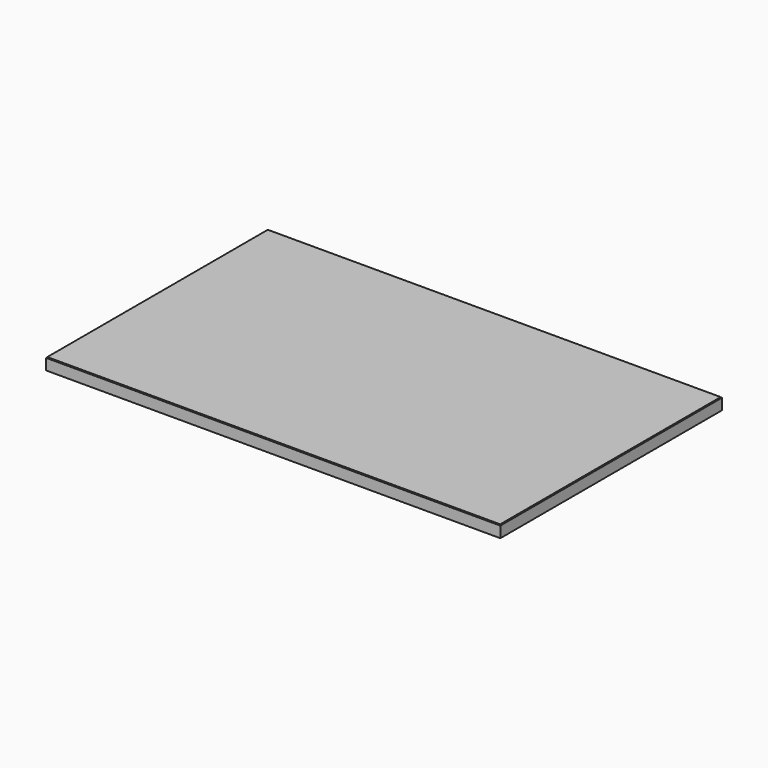
from build123d import *

# Parameters (mm, degrees)
F0_W     = 1640
F0_H     = 1000
F1_DEPTH = 40
F2_T     = -2.5
F3_DEPTH = 40


with BuildPart() as f1:
    # F0 (on Top) → F1 (new body)
    with BuildSketch(Plane.XY):
        Rectangle(F0_W, F0_H)
    extrude(amount=F1_DEPTH)

    # F2
    f2_openings = [f1.faces().sort_by_distance(p)[0] for p in [
        (0, 0, 40),
    ]]
    offset(amount=F2_T, openings=f2_openings)

    # F3 (add): a face of the model
    f3_faces = [f1.faces().sort_by_distance(p)[0] for p in [
        (0, 0, 2.5),
    ]]
    extrude(f3_faces, amount=F3_DEPTH)


solid = f1.part
